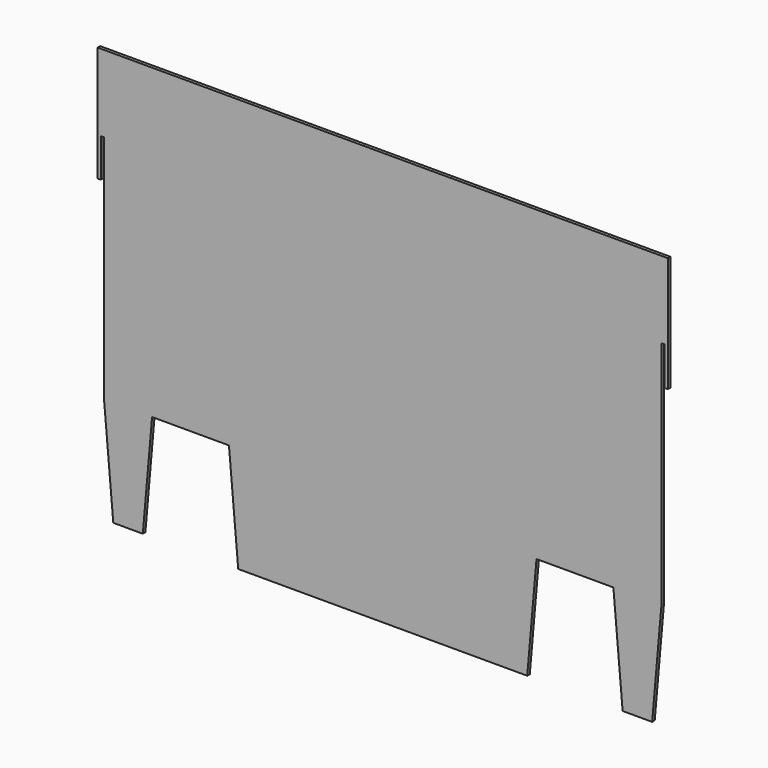
from build123d import *

# Parameters (mm, degrees)
F1_DEPTH = 3.175
F2_W     = 3.175
F2_H     = 114.3
F3_DEPTH = 3.175
F4_W     = 76.2
F4_H     = 161.842626
F5_DEPTH = 3.176


with BuildPart() as f1:
    # F0 (on Front) → F1 (new body)
    with BuildSketch(Plane.XZ):
        Polygon((228.6, -304.8), (276.225, -304.8), (276.225, 190.5), (279.4, 190.5), (279.4, 266.7), (276.225, 266.7), (-276.225, 266.7), (-279.4, 266.7), (-279.4, 190.5), (-276.225, 190.5), (-276.225, 185.04481), (-276.225, -304.8), (-228.6, -304.8), (-228.6, -38.1), (-152.4, -38.1), (-152.4, -304.8), (152.4, -304.8), (152.4, -38.1), (228.6, -38.1), align=None)
    extrude(amount=F1_DEPTH)

    # F2 (on face) → F3 (join, through all)
    with BuildSketch(Plane.XZ.offset(3.175)):
        with Locations((280.9875, 209.55)):
            Rectangle(F2_W, F2_H)
        with Locations((-280.9875, 209.55)):
            Rectangle(F2_W, F2_H)
    extrude(amount=-F3_DEPTH)

    # F4 (on face) → F5 (cut, through all)
    with BuildSketch(Plane.XZ.offset(3.175)):
        Polygon((-228.6, -142.957374), (-228.6, -38.1), (-237.773832, -142.957374), (-267.051168, -142.957374), (-276.225, -38.1), (-276.225, -142.957374), (-276.225, -304.8), (-252.891773, -304.8), (-251.933227, -304.8), (-228.6, -304.8), align=None)
        with Locations((-190.5, -223.878687)):
            Rectangle(F4_W, F4_H)
        Polygon((-152.4, -38.1), (-152.4, -142.957374), (-152.4, -304.8), (152.4, -304.8), (152.4, -142.957374), (152.4, -38.1), (145.741312, -114.209149), (143.226168, -142.957374), (-143.226168, -142.957374), (-145.741312, -114.209149), align=None)
        with Locations((190.5, -223.878687)):
            Rectangle(F4_W, F4_H)
        Polygon((228.6, -142.957374), (228.6, -304.8), (251.933227, -304.8), (252.891773, -304.8), (276.225, -304.8), (276.225, -142.957374), (276.225, -38.1), (267.051168, -142.957374), (237.773832, -142.957374), (228.6, -38.1), align=None)
    extrude(amount=-F5_DEPTH, mode=Mode.SUBTRACT)


solid = f1.part
